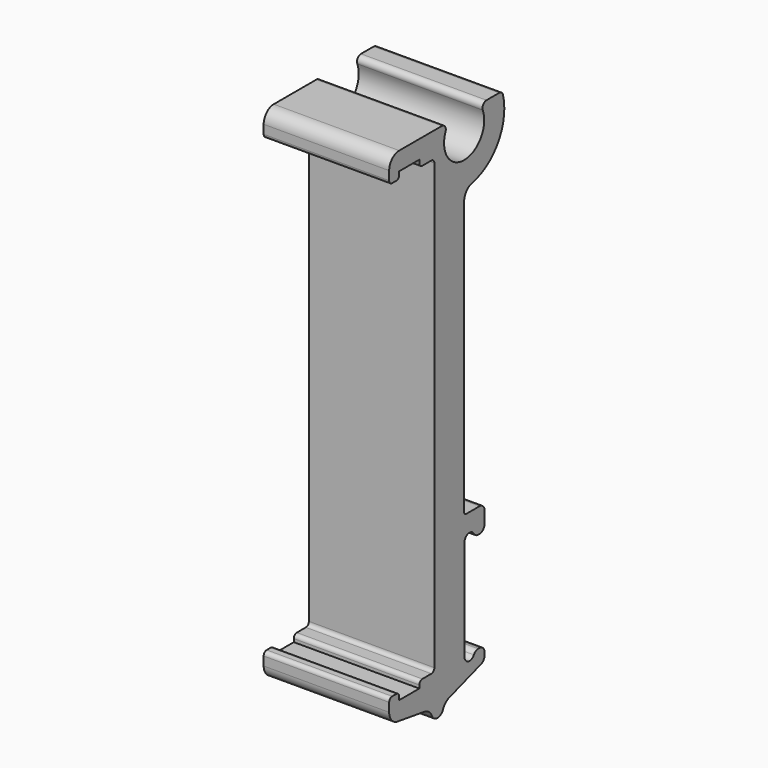
from build123d import *

# Parameters (mm, degrees)
F3_DEPTH = 10


with BuildPart() as f3:
    # F2 (on Right) → F3 (new body)
    with BuildSketch(Plane.YZ):
        with BuildLine():
            ThreePointArc((-4.5, 35.8), (-4.412132, 35.587868), (-4.2, 35.5))
            Line((-4.2, 35.5), (-3.8, 35.5))
            ThreePointArc((-3.8, 35.5), (-3.587868, 35.587868), (-3.5, 35.8))
            Line((-3.5, 35.8), (-3.5, 36.05))
            Line((-3.5, 36.05), (-1.5, 36.05))
            Line((-1.5, 36.05), (-1.5, 35.8))
            ThreePointArc((-1.5, 35.8), (-1.412132, 35.587868), (-1.2, 35.5))
            Line((-1.2, 35.5), (-0.3, 35.5))
            ThreePointArc((-0.3, 35.5), (-0.087868, 35.412132), (0, 35.2))
            Line((0, 35.2), (0, -0.2))
            ThreePointArc((0, -0.2), (-0.087868, -0.412132), (-0.3, -0.5))
            Line((-0.3, -0.5), (-1.2, -0.5))
            ThreePointArc((-1.2, -0.5), (-1.412132, -0.587868), (-1.5, -0.8))
            Line((-1.5, -0.8), (-1.5, -1.05))
            Line((-1.5, -1.05), (-3.5, -1.05))
            Line((-3.5, -1.05), (-3.5, -0.8))
            ThreePointArc((-3.5, -0.8), (-3.587868, -0.587868), (-3.8, -0.5))
            Line((-3.8, -0.5), (-4.2, -0.5))
            ThreePointArc((-4.2, -0.5), (-4.412132, -0.587868), (-4.5, -0.8))
            Line((-4.5, -0.8), (-4.5, -1.5))
            ThreePointArc((-4.5, -1.5), (-4.257206, -2.153176), (-3.646721, -2.489178))
            Line((-3.646721, -2.489178), (-1.020876, -2.87866))
            ThreePointArc((-1.020876, -2.87866), (-0.55385, -3.078335), (-0.245161, -3.481689))
            ThreePointArc((-0.245161, -3.481689), (0.31218, -3.849987), (0.864712, -3.474515))
            ThreePointArc((0.864712, -3.474515), (1.107187, -3.120048), (1.47598, -2.899975))
            Line((1.47598, -2.899975), (4.658042, -1.839826))
            ThreePointArc((4.658042, -1.839826), (4.905599, -1.657846), (5, -1.36546))
            Line((5, -1.36546), (5, -1.145353))
            ThreePointArc((5, -1.145353), (4.853553, -0.7918), (4.5, -0.645353))
            Line((4.5, -0.645353), (4.366025, -0.645353))
            ThreePointArc((4.366025, -0.645353), (4.116025, -0.71234), (3.933013, -0.895353))
            ThreePointArc((3.933013, -0.895353), (3.37059, -1.128316), (3, -0.645353))
            Line((3, -0.645353), (3, 7.354647))
            ThreePointArc((3, 7.354647), (3.37059, 7.83761), (3.933013, 7.604647))
            ThreePointArc((3.933013, 7.604647), (4.116025, 7.421634), (4.366025, 7.354647))
            Line((4.366025, 7.354647), (4.5, 7.354647))
            ThreePointArc((4.5, 7.354647), (4.853553, 7.501094), (5, 7.854647))
            Line((5, 7.854647), (5, 8.801021))
            ThreePointArc((5, 8.801021), (4.853553, 9.154574), (4.5, 9.301021))
            Line((4.5, 9.301021), (3.168028, 9.301021))
            ThreePointArc((3.168028, 9.301021), (3.026607, 9.359599), (2.968028, 9.501021))
            Line((2.968028, 9.501021), (2.968028, 31.301021))
            ThreePointArc((2.968028, 31.301021), (3.193432, 31.933476), (3.768028, 32.280816))
            ThreePointArc((3.768028, 32.280816), (6.360488, 34.080751), (6.841012, 37.2))
            ThreePointArc((6.841012, 37.2), (6.698662, 37.416228), (6.453713, 37.5))
            Line((6.453713, 37.5), (5.192888, 37.5))
            ThreePointArc((5.192888, 37.5), (4.861225, 37.323607), (4.822078, 36.95))
            ThreePointArc((4.822078, 36.95), (2.968028, 34.2), (1.113979, 36.95))
            ThreePointArc((1.113979, 36.95), (1.074831, 37.323607), (0.743169, 37.5))
            Line((0.743169, 37.5), (-3.5, 37.5))
            ThreePointArc((-3.5, 37.5), (-4.207107, 37.207107), (-4.5, 36.5))
            Line((-4.5, 36.5), (-4.5, 35.8))
        make_face()
    extrude(amount=F3_DEPTH)


solid = f3.part
